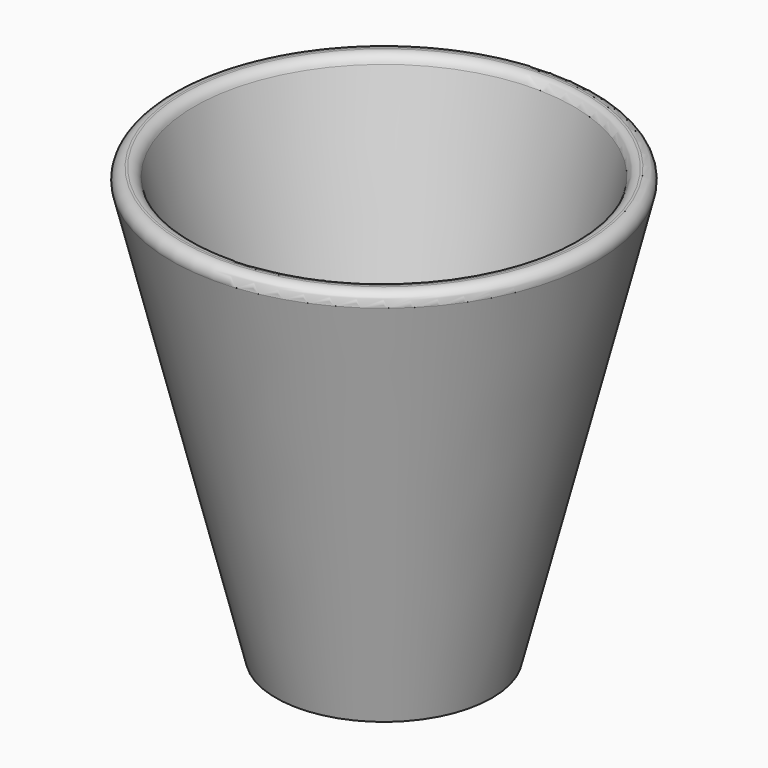
from build123d import *

# Parameters (mm, degrees)
FILLET_R = 1


with BuildPart() as cono001:
    # Cone001 → Cone001 (revolve)
    with BuildSketch(Plane(origin=(0, 0, 1), x_dir=(1, 0, 0), z_dir=(0, -1, 0))):
        Polygon((0, 0), (8, 0), (18, 40), (0, 40), align=None)
    revolve(axis=Axis((0, 0, 1), (0, 0, 1)))


with BuildPart() as fillet_body:
    # Cone → Cone (revolve)
    with BuildSketch(Plane.XZ):
        Polygon((0, 0), (10, 0), (20, 40), (0, 40), align=None)
    revolve(axis=Axis((0, 0, 0), (0, 0, 1)))

    # Cut: cut Cono001
    add(cono001.part, mode=Mode.SUBTRACT)

    # Fillet
    fillet_edges = [fillet_body.edges().sort_by_distance(p)[0] for p in [
        (-20, 0, 40),
        (-17.75, 0, 40),
    ]]
    fillet(fillet_edges, radius=FILLET_R)


solid = fillet_body.part
